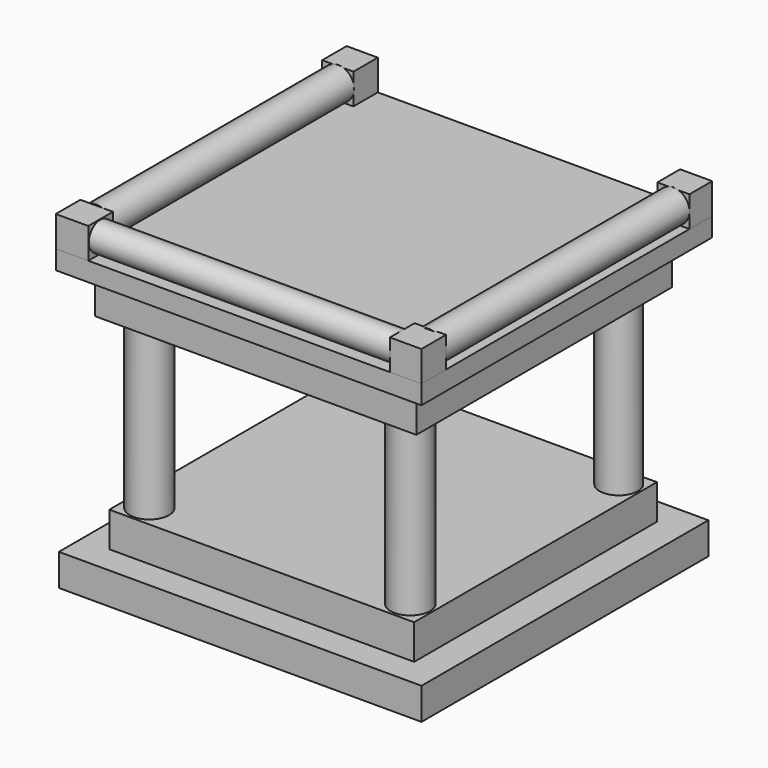
from build123d import *

# Parameters (mm, degrees)
F0_W      = 150.558009
F0_H      = 148.838363
F1_DEPTH  = 13.208
F2_W      = 126.540639
F2_H      = 125.973191
F3_DEPTH  = 14.478
F4_R      = 8.114688
F4_R_2    = 8.169072
F4_R_3    = 8.227981
F4_R_4    = 7.949321
F5_DEPTH  = 70.866
F6_W      = 133.349993
F6_H      = 132.782564
F7_DEPTH  = 17.526
F8_W      = 151.792019
F8_H      = 150.94085
F9_DEPTH  = 7.874
F10_W     = 12.939997
F10_H     = 12.656048
F10_W_2   = 13.507895
F10_H_2   = 12.779001
F10_W_3   = 13.062272
F10_W_4   = 13.346217
F10_H_3   = 11.8042
F11_DEPTH = 12.7
F12_R     = 6.673109
F13_DEPTH = 127
F14_R     = 6.64679
F15_DEPTH = 125.476
F16_R     = 5.888986
F17_DEPTH = 124.968


with BuildPart() as f1:
    # F0 (on Top) → F1 (new body)
    with BuildSketch(Plane.XY):
        with Locations((-0.219747, 0.380617)):
            Rectangle(F0_W, F0_H)
    extrude(amount=-F1_DEPTH)

    # F2 (on face) → F3 (join)
    with BuildSketch(Plane.XY):
        with Locations((-0.567448, 0.567446)):
            Rectangle(F2_W, F2_H)
    extrude(amount=F3_DEPTH)

    # F4 (on face) → F5 (join)
    with BuildSketch(Plane.XY.offset(14.478)):
        with Locations((-53.907447, 54.758616)):
            Circle(F4_R)
        with Locations((-54.474894, -53.340003)):
            Circle(F4_R_2)
        with Locations((53.623725, -53.056277)):
            Circle(F4_R_3)
        with Locations((53.907447, 54.758616)):
            Circle(F4_R_4)
    extrude(amount=F5_DEPTH)

    # F6 (on face) → F7 (join)
    with BuildSketch(Plane.XY.offset(85.344)):
        with Locations((-0.567448, 0.851169)):
            Rectangle(F6_W, F6_H)
    extrude(amount=F7_DEPTH)

    # F8 (on face) → F9 (join)
    with BuildSketch(Plane.XY.offset(102.87)):
        with Locations((-0.425584, 0.851169)):
            Rectangle(F8_W, F8_H)
    extrude(amount=F9_DEPTH)

    # F10 (on face) → F11 (join)
    with BuildSketch(Plane.XY.offset(110.744)):
        with Locations((-69.851596, 69.99357)):
            Rectangle(F10_W, F10_H)
        with Locations((-69.567646, -68.229755)):
            Rectangle(F10_W_2, F10_H_2)
        with Locations((68.939289, -68.229755)):
            Rectangle(F10_W_3, F10_H_2)
        with Locations((68.797316, 70.419494)):
            Rectangle(F10_W_4, F10_H_3)
    extrude(amount=F11_DEPTH)

    # F12 (on face) → F13 (join)
    with BuildSketch(Plane.XZ.offset(-64.517394)):
        with Locations((68.797316, 117.094)):
            Circle(F12_R)
    extrude(amount=F13_DEPTH)

    # F14 (on face) → F15 (join)
    with BuildSketch(Plane.XZ.offset(-63.665546)):
        with Locations((-69.674805, 117.219515)):
            Circle(F14_R)
    extrude(amount=F15_DEPTH)

    # F16 (on face) → F17 (join)
    with BuildSketch(Plane.YZ.offset(-62.813699)):
        with Locations((-68.470404, 117.315501)):
            Circle(F16_R)
    extrude(amount=F17_DEPTH)


solid = f1.part
